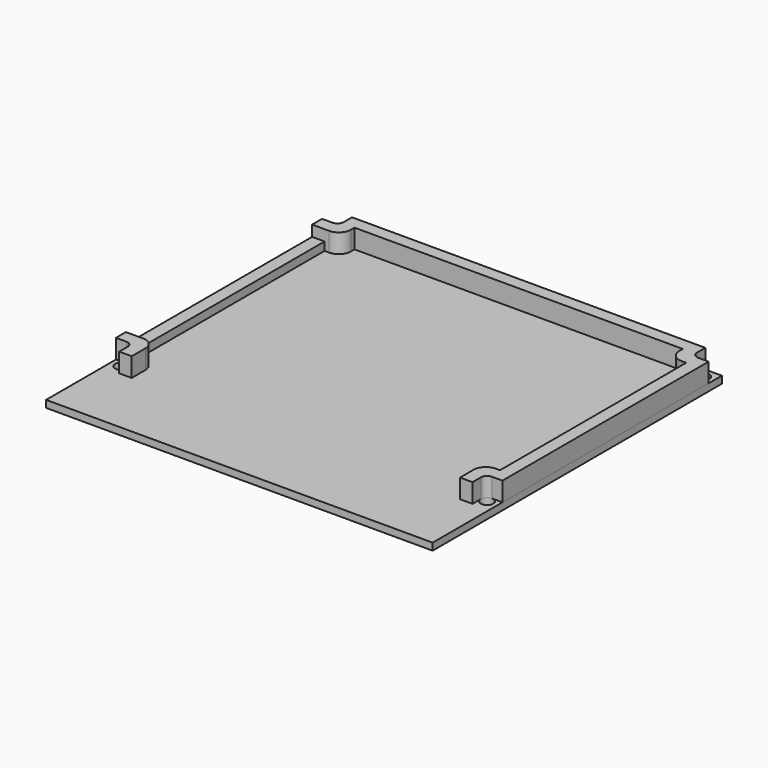
from build123d import *

# Parameters (mm, degrees)
SKETCH_W       = 93
SKETCH_H       = 87
SKETCH_R       = 1.5
PAD_DEPTH      = 1.71
PAD001_DEPTH   = 4.6
SKETCH001003_W = 3
SKETCH001003_H = 56
POCKET_DEPTH   = 2.6
FILLET_R       = 1.5
FILLET001_R    = 2.9


with BuildPart() as white_circuit_board:
    # Sketch → Pad (new body)
    with BuildSketch(Plane.XY):
        Rectangle(SKETCH_W, SKETCH_H)
        with Locations((-44, 41)):
            Circle(SKETCH_R, mode=Mode.SUBTRACT)
        with Locations((44, 41)):
            Circle(SKETCH_R, mode=Mode.SUBTRACT)
        with Locations((-44, -24)):
            Circle(SKETCH_R, mode=Mode.SUBTRACT)
        with Locations((44, -24)):
            Circle(SKETCH_R, mode=Mode.SUBTRACT)
    extrude(amount=-PAD_DEPTH)


with BuildPart() as spacer:
    # Sketch001002 → Pad001 (new body)
    with BuildSketch(Plane.XY):
        Polygon((-46.5, 39.5), (-42.5, 39.5), (-42.5, 43.5), (42.5, 43.5), (42.5, 39.5), (46.5, 39.5), (46.5, -22.5), (42.5, -22.5), (42.5, -26.5), (39.5, -26.5), (39.5, -19.5), (43.5, -19.5), (43.5, 36.5), (39.5, 36.5), (39.5, 40.5), (-39.5, 40.5), (-39.5, 36.5), (-43.5, 36.5), (-43.5, -19.5), (-39.5, -19.5), (-39.5, -26.5), (-42.5, -26.5), (-42.5, -22.5), (-46.5, -22.5), align=None)
    extrude(amount=PAD001_DEPTH)

    # Sketch001003 → Pocket (cut)
    with BuildSketch(Plane.XY.offset(4.6)):
        with Locations((-45, 8.5)):
            Rectangle(SKETCH001003_W, SKETCH001003_H)
    extrude(amount=-POCKET_DEPTH, mode=Mode.SUBTRACT)

    # Fillet
    fillet_edges = [spacer.edges().sort_by_distance(p)[0] for p in [
        (42.5, -22.5, 2.3),
        (42.5, 39.5, 2.3),
        (-42.5, 39.5, 2.3),
        (-42.5, -22.5, 2.3),
    ]]
    fillet(fillet_edges, radius=FILLET_R)

    # Fillet001
    fillet001_edges = [spacer.edges().sort_by_distance(p)[0] for p in [
        (39.5, 36.5, 2.3),
        (39.5, -19.5, 2.3),
        (-39.5, 36.5, 2.3),
        (-39.5, -19.5, 2.3),
    ]]
    fillet(fillet001_edges, radius=FILLET001_R)


solid = Compound([white_circuit_board.part, spacer.part])
